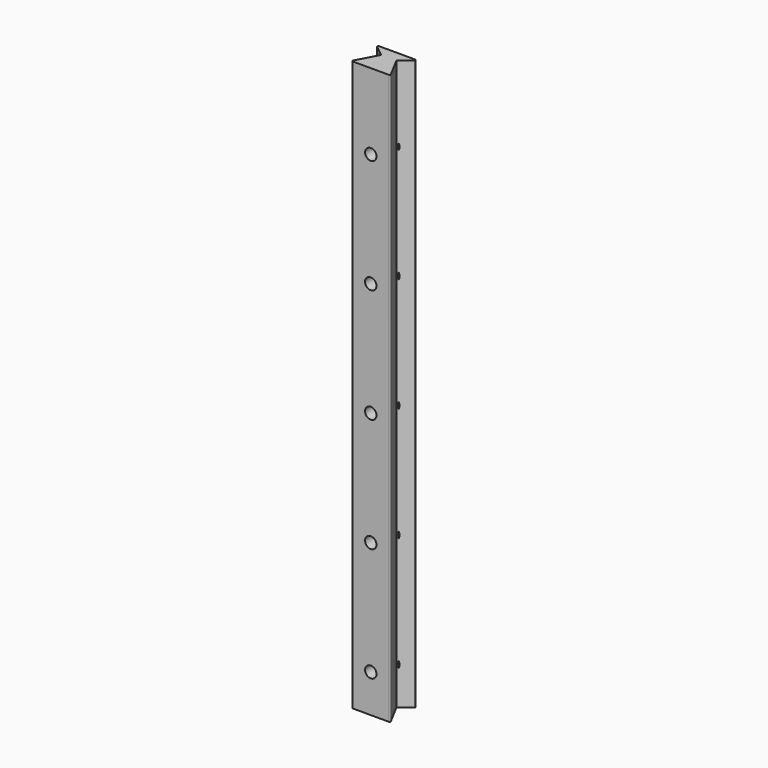
from build123d import *

# Parameters (mm, degrees)
PAD_DEPTH       = 300
SKETCH001_R     = 3
POCKET_DEPTH    = 17.410023
SKETCH002_R     = 5
POCKET001_DEPTH = 5


with BuildPart() as part:
    # Sketch → Pad (new body)
    with BuildSketch(Plane.XY):
        with BuildLine():
            Line((-9.5, 0), (9.5, 0))
            ThreePointArc((9.5, 0), (9.928584, 0.242481), (9.941474, 0.734736))
            Line((4, 11.909023), (9.941474, 0.734736))
            Line((9.810688, 16.517266), (4, 11.909023))
            ThreePointArc((9.810688, 16.517266), (9.972164, 17.073525), (9.5, 17.409023))
            Line((9.5, 17.409023), (-9.5, 17.409023))
            ThreePointArc((-9.5, 17.409023), (-9.972164, 17.073525), (-9.810688, 16.517266))
            Line((-9.810688, 16.517266), (-4, 11.909023))
            Line((-4, 11.909023), (-9.941474, 0.734736))
            ThreePointArc((-9.941474, 0.734736), (-9.928584, 0.242481), (-9.5, 0))
        make_face()
    extrude(amount=PAD_DEPTH)

    # Sketch001 (on Face2 of Pad) → Pocket (cut, through all)
    with BuildSketch(Plane(origin=(0, 17.409023, 0), x_dir=(-1, 0, 0), z_dir=(0, 1, 0))):
        with Locations((0, 20)):
            Circle(SKETCH001_R)
        with Locations((0, 80)):
            Circle(SKETCH001_R)
        with Locations((0, 140)):
            Circle(SKETCH001_R)
        with Locations((0, 200)):
            Circle(SKETCH001_R)
        with Locations((0, 260)):
            Circle(SKETCH001_R)
    extrude(amount=-POCKET_DEPTH, mode=Mode.SUBTRACT)

    # Sketch002 (on Face3 of Pocket) → Pocket001 (cut)
    with BuildSketch(Plane(origin=(0, 17.409023, 0), x_dir=(-1, 0, 0), z_dir=(0, 1, 0))):
        with Locations((0, 260)):
            Circle(SKETCH002_R)
        with Locations((0, 200)):
            Circle(SKETCH002_R)
        with Locations((0, 140)):
            Circle(SKETCH002_R)
        with Locations((0, 80)):
            Circle(SKETCH002_R)
        with Locations((0, 20)):
            Circle(SKETCH002_R)
    extrude(amount=-POCKET001_DEPTH, mode=Mode.SUBTRACT)


solid = part.part
